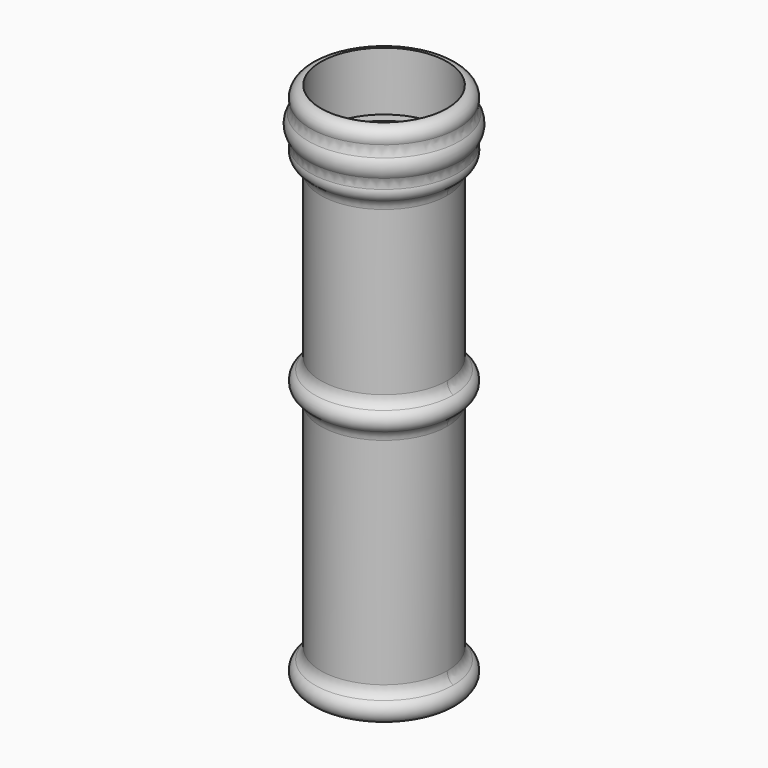
from build123d import *

# Parameters (mm, degrees)
F0_R     = 25.4
F0_R_2   = 22.86
F1_DEPTH = 203.2
F2_R     = 4.445
F4_R     = 5.08
F6_R     = 25.4
F7_DEPTH = 25.4


with BuildPart() as f1:
    # F0 (on Top) → F1 (new body)
    with BuildSketch(Plane.XY):
        Circle(F0_R)
        Circle(F0_R_2, mode=Mode.SUBTRACT)
    extrude(amount=F1_DEPTH)

    # F2 (on Front) → F3 (revolve)
    with BuildSketch(Plane.XZ):
        with Locations((-25.4641920328, 0)):
            Circle(F2_R)
        with Locations((-25.4641920328, 102.727279067)):
            Circle(F2_R)
        with BuildLine():
            ThreePointArc((-22.5830397124, 199.4523968468), (-21.4290497141, 200.9729039565), (-21.0191920328, 202.8372138739))
            ThreePointArc((-21.0191920328, 202.8372138739), (-27.4421082146, 206.8179013243), (-28.148943474, 199.2945969458))
            ThreePointArc((-28.148943474, 199.2945969458), (-25.3842100914, 200.0160981079), (-22.5830397124, 199.4523968468))
        make_face()
        with BuildLine():
            ThreePointArc((-22.5830397124, 199.4523968468), (-25.3842100914, 200.0160981079), (-28.148943474, 199.2945969458))
            ThreePointArc((-28.148943474, 199.2945969458), (-25.338221685, 198.3939992187), (-22.5830397124, 199.4523968468))
        make_face()
        with BuildLine():
            ThreePointArc((-22.5830397124, 199.4523968468), (-25.338221685, 198.3939992187), (-28.148943474, 199.2945969458))
            ThreePointArc((-28.148943474, 199.2945969458), (-31.5542427737, 193.6797350993), (-28.1685702383, 188.0530168409))
            ThreePointArc((-28.1685702383, 188.0530168409), (-25.3473791367, 188.9545248253), (-22.5860758252, 187.8835253389))
            ThreePointArc((-22.5860758252, 187.8835253389), (-19.8681526785, 190.2264778885), (-18.8542524517, 193.6686486006))
            ThreePointArc((-18.8542524517, 193.6686486006), (-19.8672495055, 197.1094187982), (-22.5830397124, 199.4523968468))
        make_face()
        with BuildLine():
            ThreePointArc((-22.5860758252, 187.8835253389), (-25.3473791367, 188.9545248253), (-28.1685702383, 188.0530168409))
            ThreePointArc((-28.1685702383, 188.0530168409), (-25.3969575839, 187.321573311), (-22.5860758252, 187.8835253389))
        make_face()
        with BuildLine():
            ThreePointArc((-22.5860758252, 187.8835253389), (-25.3969575839, 187.321573311), (-28.1685702383, 188.0530168409))
            ThreePointArc((-28.1685702383, 188.0530168409), (-27.459320095, 180.5304530947), (-21.0372727293, 184.5115721226))
            ThreePointArc((-21.0372727293, 184.5115721226), (-21.4429893622, 186.3668928174), (-22.5860758252, 187.8835253389))
        make_face()
    revolve(axis=Axis((0, 0, 0), (0, 0, -1)))

    # F4
    f4_edges = [f1.edges().sort_by_distance(p)[0] for p in [
        (0, 25.4, 4.444536),
        (0, -25.4, 4.444536),
        (-28.629896, 0, -3.120312),
        (21.019192, 0, 0),
        (0, 25.4, 107.171816),
        (0, -25.4, 107.171816),
        (25.4, 0, 143.619575),
        (0, -25.4, 180.067334),
        (0, 25.4, 180.067334),
        (-29.909192, 0, 102.727279),
        (0, 25.4, 98.282743),
        (0, -25.4, 98.282743),
        (22.58304, 0, 199.452397),
        (28.148943, 0, 199.294597),
        (-25.590162, 0, 207.280429),
        (25.4, 0, 51.36364),
        (28.16857, 0, 188.053017),
        (-31.554243, 0, 193.679735),
        (-29.682037, 0, 183.055549),
        (0, 22.86, 106.32953),
        (0, -22.86, 106.32953),
        (22.86, 0, 143.625996),
        (0, -22.86, 180.922462),
        (0, 22.86, 180.922462),
        (-21.04071, 0, 184.336793),
        (22.586076, 0, 187.883525),
        (0, 22.86, 3.602251),
        (0, -22.86, 3.602251),
        (22.86, 0, 51.36364),
        (0, -22.86, 99.125029),
        (0, 22.86, 99.125029),
        (-18.854253, 0, 193.666982),
    ]]
    fillet(f4_edges, radius=F4_R)

    # F6 (on offset) → F7 (cut)
    with BuildSketch(Plane.XY.offset(209.042)):
        Circle(F6_R)
    extrude(amount=-F7_DEPTH, mode=Mode.SUBTRACT)


solid = f1.part
